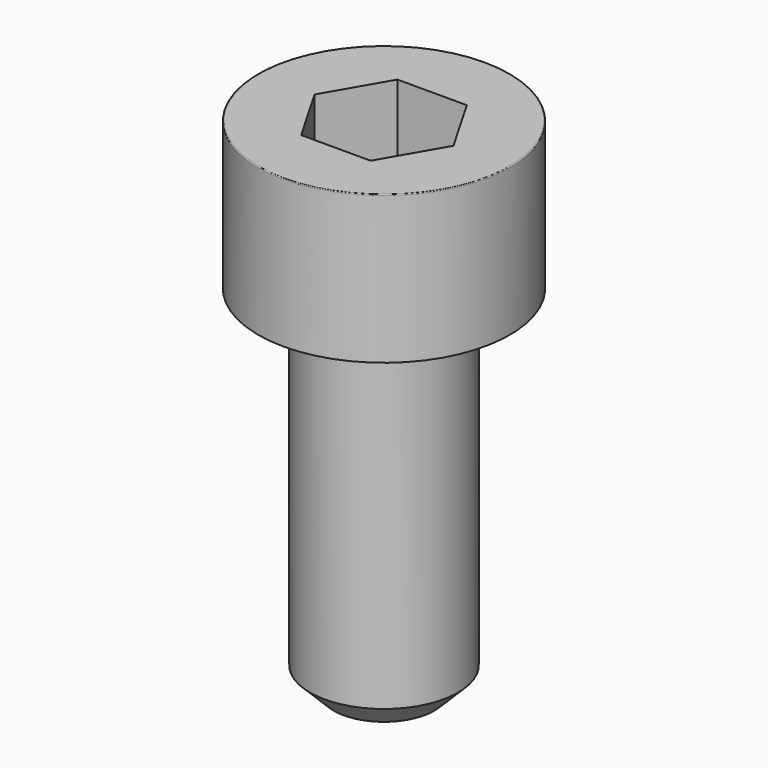
from build123d import *

# Parameters (mm, degrees)
POCKET_DEPTH = 4.06


with BuildPart() as part:
    # Sketch → Revolve (revolve)
    with BuildSketch(Plane.YZ):
        with BuildLine():
            Line((2.499, 0), (4.25, 0))
            Line((4.25, 0), (4.25, 4.97229))
            ThreePointArc((4.25, 4.97229), (4.241884, 4.991884), (4.22229, 5))
            Line((4.22229, 5), (0, 5))
            Line((0, -12), (0, 5))
            Line((1.7, -12), (0, -12))
            Line((2.5, -11.2), (1.7, -12))
            Line((2.5, -0.2), (2.5, -11.2))
            Line((2.499, 0), (2.5, -0.2))
        make_face()
    revolve(axis=Axis((0, 0, 0), (0, 0, 1)))

    # Sketch001 → Pocket (cut)
    with BuildSketch(Plane.XY.offset(5)):
        Polygon((2.344042, 0), (1.172021, 2.03), (-1.172021, 2.03), (-2.344042, 0), (-1.172021, -2.03), (1.172021, -2.03), align=None)
    extrude(amount=-POCKET_DEPTH, mode=Mode.SUBTRACT)


solid = part.part
